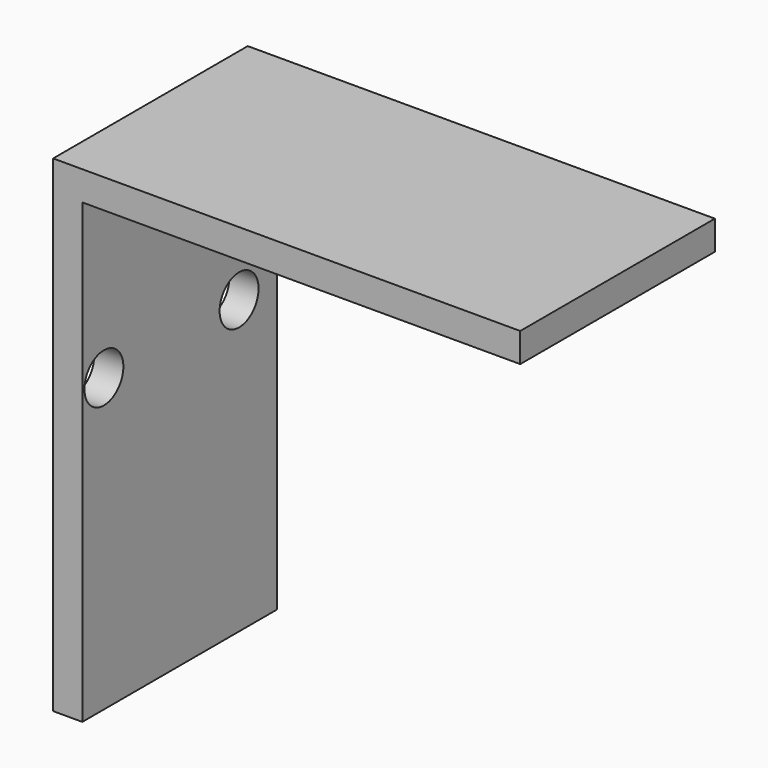
from build123d import *

# Parameters (mm, degrees)
F1_DEPTH = 25
F2_R     = 2.5
F3_DEPTH = 25


with BuildPart() as f1:
    # F0 (on Front) → F1 (new body)
    with BuildSketch(Plane.XZ):
        Polygon((15.035118, 20.081509), (-32.964882, 20.081509), (-32.964882, -29.918491), (-29.964882, -29.918491), (-29.964882, 17.081509), (15.035118, 17.081509), align=None)
    extrude(amount=F1_DEPTH)

    # F2 (on face) → F3 (cut)
    with BuildSketch(Plane(origin=(-32.964882, 0, 0), x_dir=(0, -1, 0), z_dir=(-1, 0, 0))):
        with Locations((22.227423, 0.081509)):
            Circle(F2_R)
        with Locations((4.864288, 0.081509)):
            Circle(F2_R)
    extrude(amount=-F3_DEPTH, mode=Mode.SUBTRACT)


solid = f1.part
